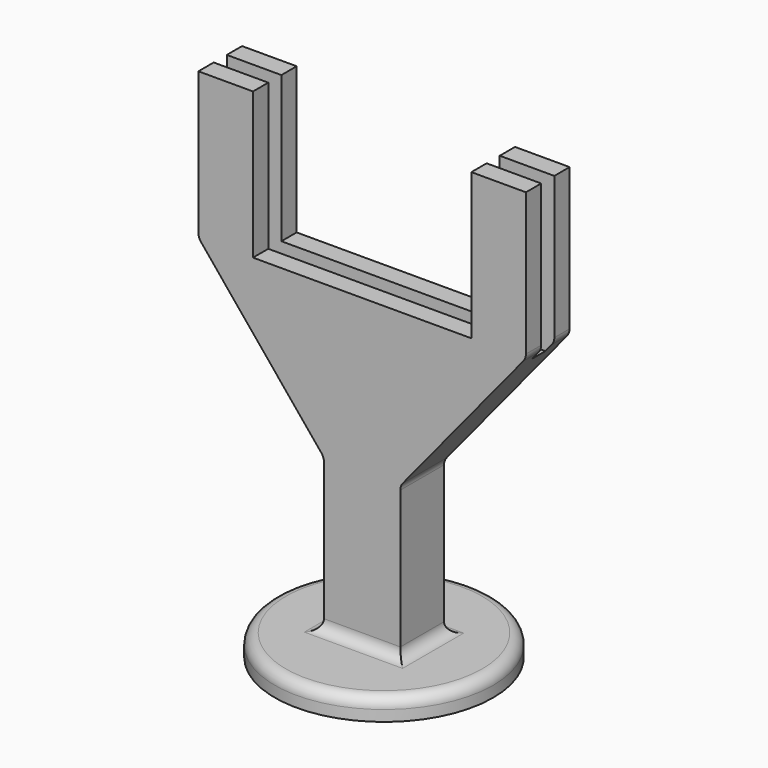
from build123d import *

# Parameters (mm, degrees)
F0_R     = 10
F1_DEPTH = 2
F3_DEPTH = 2.5
F4_W     = 20
F4_H     = 30
F5_DEPTH = 12.501
F6_W     = 30
F6_H     = 1.5
F7_DEPTH = 31
F8_W     = 30
F8_H     = 16.6010832787
F9_DEPTH = 12.501
F10_R    = 1


with BuildPart() as f1:
    # F0 (on Top) → F1 (new body)
    with BuildSketch(Plane.XY):
        Circle(F0_R)
    extrude(amount=F1_DEPTH)

    # F2 (on Front) → F3 (join, symmetric)
    with BuildSketch(Plane.XZ):
        Polygon((3.5, 30), (-3.5, 30), (-3.5, 16), (-3.5, 2), (3.5, 2), (3.5, 16), align=None)
        Polygon((-15, 30), (-3.5, 30), (3.5, 30), (15, 30), (15, 60), (-15, 60), align=None)
        Polygon((-3.5, 16), (-3.5, 30), (-15, 30), align=None)
        Polygon((15, 30), (3.5, 30), (3.5, 16), align=None)
    extrude(amount=F3_DEPTH, both=True)

    # F4 (on face) → F5 (cut, through all)
    with BuildSketch(Plane.XZ.offset(2.5)):
        with Locations((0, 45)):
            Rectangle(F4_W, F4_H)
    extrude(amount=-F5_DEPTH, mode=Mode.SUBTRACT)

    # F6 (on face) → F7 (cut)
    with BuildSketch(Plane.XY.offset(60)):
        Rectangle(F6_W, F6_H)
    extrude(amount=-F7_DEPTH, mode=Mode.SUBTRACT)

    # F8 (on face) → F9 (cut, through all)
    with BuildSketch(Plane.XZ.offset(2.5)):
        with Locations((0, 51.6994583607)):
            Rectangle(F8_W, F8_H)
    extrude(amount=-F9_DEPTH, mode=Mode.SUBTRACT)

    # F10
    f10_edges = [f1.edges().sort_by_distance(p)[0] for p in [
        (-10, 0, 2),
        (-3.5, 0, 2),
        (0, -2.5, 2),
        (3.5, 0, 2),
        (0, 2.5, 2),
        (-3.5, 0, 16),
        (3.5, 0, 16),
        (15, -1.625, 30),
        (15, 1.625, 30),
        (-15, -1.625, 30),
        (-15, 1.625, 30),
    ]]
    fillet(f10_edges, radius=F10_R)


solid = f1.part
